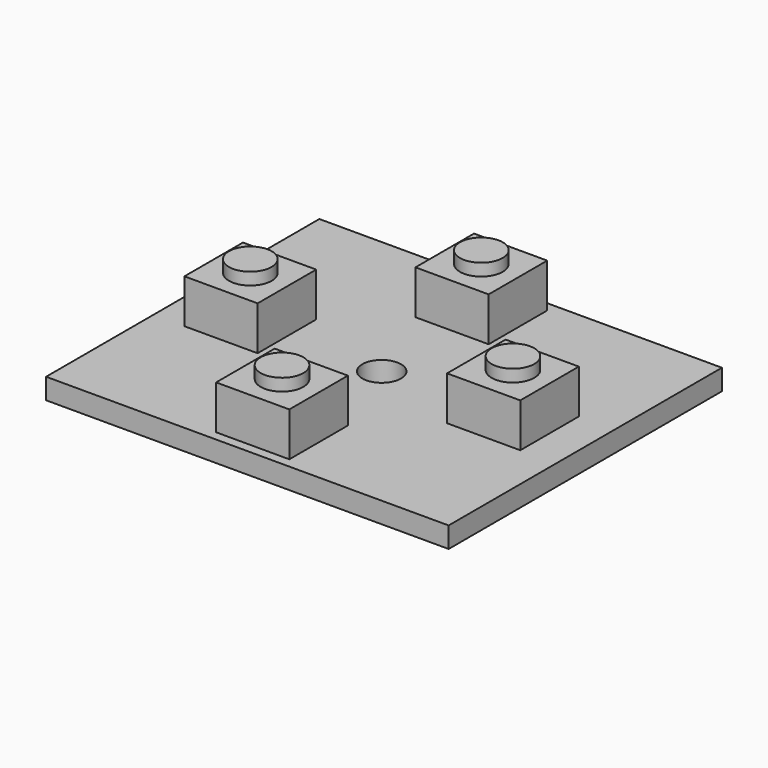
from build123d import *

# Parameters (mm, degrees)
CYLINDER001_R     = 1.75
CYLINDER001_DEPTH = 1
BOX002_W          = 6
BOX002_H          = 6
BOX002_DEPTH      = 3.6
CYLINDER002_R     = 1.75
CYLINDER002_DEPTH = 1
BOX003_W          = 6
BOX003_H          = 6
BOX003_DEPTH      = 3.6
CYLINDER003_R     = 1.75
CYLINDER003_DEPTH = 1
BOX004_W          = 6
BOX004_H          = 6
BOX004_DEPTH      = 3.6
CYLINDER004_R     = 1.588
CYLINDER004_DEPTH = 2
BOX001_W          = 33
BOX001_H          = 28
BOX001_DEPTH      = 1.7
CYLINDER_R        = 1.75
CYLINDER_DEPTH    = 1
BOX_W             = 6
BOX_H             = 6
BOX_DEPTH         = 3.6


with BuildPart() as obj1:
    # Cylinder001 → Cylinder001 (new body)
    with BuildSketch(Plane(origin=(3, 3, 3.6), x_dir=(1, 0, 0), z_dir=(0, 0, 1))):
        Circle(CYLINDER001_R)
    extrude(amount=CYLINDER001_DEPTH)


with BuildPart() as obj2:
    # Box002 → Box002 (new body)
    with BuildSketch(Plane.XY):
        with Locations((3, 3)):
            Rectangle(BOX002_W, BOX002_H)
    extrude(amount=BOX002_DEPTH)

    # Fusion011: union obj1
    add(obj1.part)


with BuildPart() as obj2_1:
    # Fusion011 placement: moved
    add(obj2.part.moved(Location((24.07, 11, 1.7))))


with BuildPart() as obj3:
    # Cylinder002 → Cylinder002 (new body)
    with BuildSketch(Plane(origin=(3, 3, 3.6), x_dir=(1, 0, 0), z_dir=(0, 0, 1))):
        Circle(CYLINDER002_R)
    extrude(amount=CYLINDER002_DEPTH)


with BuildPart() as obj4:
    # Box003 → Box003 (new body)
    with BuildSketch(Plane.XY):
        with Locations((3, 3)):
            Rectangle(BOX003_W, BOX003_H)
    extrude(amount=BOX003_DEPTH)

    # Fusion010: union obj3
    add(obj3.part)


with BuildPart() as obj4_1:
    # Fusion010 placement: moved
    add(obj4.part.moved(Location((13.31, 21.21, 1.7))))


with BuildPart() as obj5:
    # Cylinder003 → Cylinder003 (new body)
    with BuildSketch(Plane(origin=(3, 3, 3.6), x_dir=(1, 0, 0), z_dir=(0, 0, 1))):
        Circle(CYLINDER003_R)
    extrude(amount=CYLINDER003_DEPTH)


with BuildPart() as obj6:
    # Box004 → Box004 (new body)
    with BuildSketch(Plane.XY):
        with Locations((3, 3)):
            Rectangle(BOX004_W, BOX004_H)
    extrude(amount=BOX004_DEPTH)

    # Fusion009: union obj5
    add(obj5.part)


with BuildPart() as obj6_1:
    # Fusion009 placement: moved
    add(obj6.part.moved(Location((13.31, 0.787, 1.7))))


with BuildPart() as obj7:
    # Cylinder004 → Cylinder004 (new body)
    with BuildSketch(Plane(origin=(16.31, 14, 0), x_dir=(1, 0, 0), z_dir=(0, 0, 1))):
        Circle(CYLINDER004_R)
    extrude(amount=CYLINDER004_DEPTH)


with BuildPart() as cut006:
    # Box001 → Box001 (new body)
    with BuildSketch(Plane.XY):
        with Locations((16.5, 14)):
            Rectangle(BOX001_W, BOX001_H)
    extrude(amount=BOX001_DEPTH)

    # Cut006: cut obj7
    add(obj7.part, mode=Mode.SUBTRACT)


with BuildPart() as obj8:
    # Cylinder → Cylinder (new body)
    with BuildSketch(Plane(origin=(3, 3, 3.6), x_dir=(1, 0, 0), z_dir=(0, 0, 1))):
        Circle(CYLINDER_R)
    extrude(amount=CYLINDER_DEPTH)


with BuildPart() as main_buttons_pcb:
    # Box → Box (new body)
    with BuildSketch(Plane.XY):
        with Locations((3, 3)):
            Rectangle(BOX_W, BOX_H)
    extrude(amount=BOX_DEPTH)

    # Fusion012: union obj8
    add(obj8.part)


with BuildPart() as main_buttons_pcb_1:
    # Fusion012 placement: moved
    add(main_buttons_pcb.part.moved(Location((2.54, 11, 1.7))))

    # Fusion008: union obj2, obj4, obj6, Cut006
    add(obj2_1.part)
    add(obj4_1.part)
    add(obj6_1.part)
    add(cut006.part)


with BuildPart() as main_buttons_pcb_2:
    # Fusion008 placement: moved
    add(main_buttons_pcb_1.part.moved(Location((86, 0, 0))))


solid = main_buttons_pcb_2.part
